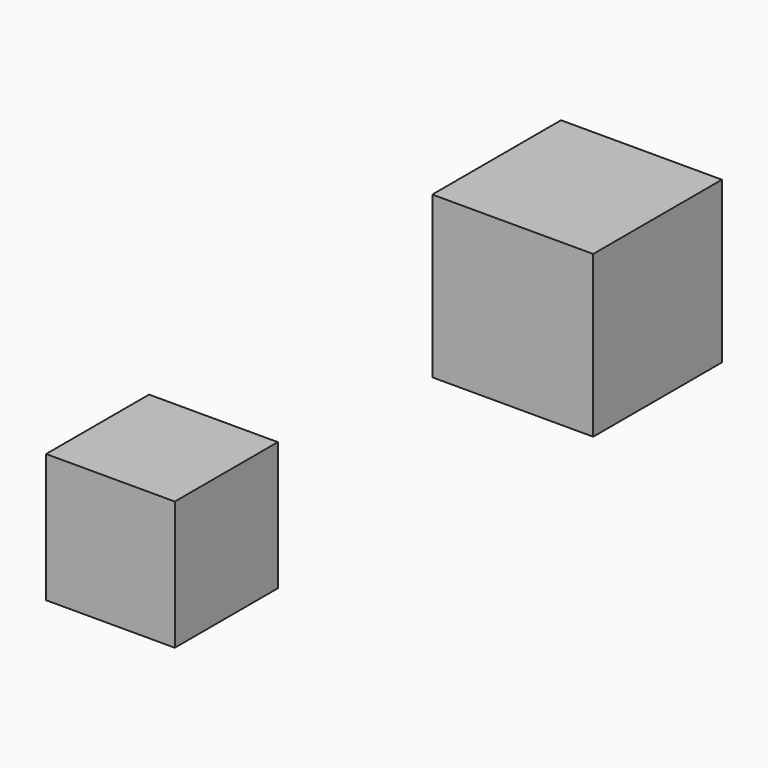
from build123d import *

# Parameters (mm, degrees)
BOX008_W     = 8
BOX008_H     = 8
BOX008_DEPTH = 8
BOX_W        = 10
BOX_H        = 10
BOX_DEPTH    = 10


with BuildPart() as cube008:
    # Box008 → Box008 (new body)
    with BuildSketch(Plane(origin=(0, -30, 0), x_dir=(1, 0, 0), z_dir=(0, 0, 1))):
        with Locations((4, 4)):
            Rectangle(BOX008_W, BOX008_H)
    extrude(amount=BOX008_DEPTH)


with BuildPart() as fusion:
    # Box → Box (new body)
    with BuildSketch(Plane.XY):
        with Locations((5, 5)):
            Rectangle(BOX_W, BOX_H)
    extrude(amount=BOX_DEPTH)

    # Fusion: union Cube008
    add(cube008.part)


solid = fusion.part
